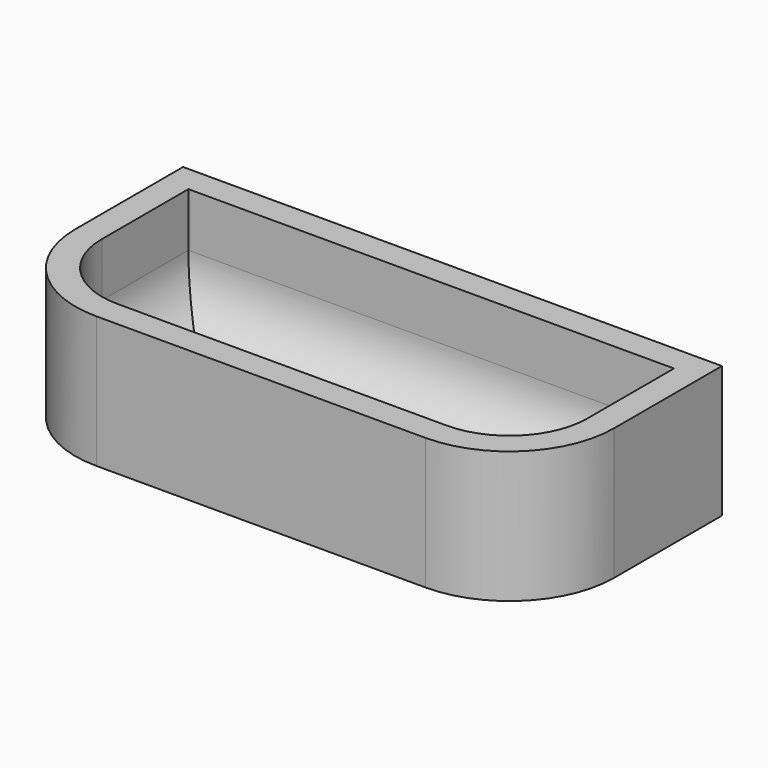
from build123d import *

# Parameters (mm, degrees)
F0_W     = 1800
F0_H     = 800
F1_DEPTH = 440
F2_R     = 350
F4_DEPTH = 380
F5_R     = 200


with BuildPart() as f1:
    # F0 (on Top) → F1 (new body)
    with BuildSketch(Plane.XY):
        with Locations((-1.622595, -185.142654)):
            Rectangle(F0_W, F0_H)
    extrude(amount=F1_DEPTH)

    # F2
    f2_edges = [f1.edges().sort_by_distance(p)[0] for p in [
        (-901.622595, -585.142654, 220),
        (898.377405, -585.142654, 220),
    ]]
    fillet(f2_edges, radius=F2_R)

    # F3 (on face) → F4 (cut)
    with BuildSketch(Plane.XY.offset(440)):
        with BuildLine():
            Line((809.377417, 125.857358), (-812.622607, 125.857358))
            Line((-812.622607, 125.857358), (-812.622607, -235.142654))
            ThreePointArc((-812.622607, -235.142654), (-736.177473, -419.697533), (-551.622595, -496.142666))
            Line((-551.622595, -496.142666), (548.377405, -496.142666))
            ThreePointArc((548.377405, -496.142666), (732.932283, -419.697533), (809.377417, -235.142654))
            Line((809.377417, -235.142654), (809.377417, 125.857358))
        make_face()
    extrude(amount=-F4_DEPTH, mode=Mode.SUBTRACT)

    # F5
    f5_edges = [f1.edges().sort_by_distance(p)[0] for p in [
        (-812.622607, -54.642648, 60),
        (-736.177473, -419.697533, 60),
        (-1.622595, 125.857358, 60),
        (809.377417, -54.642648, 60),
        (732.932283, -419.697533, 60),
        (-1.622595, -496.142666, 60),
    ]]
    fillet(f5_edges, radius=F5_R)


solid = f1.part
